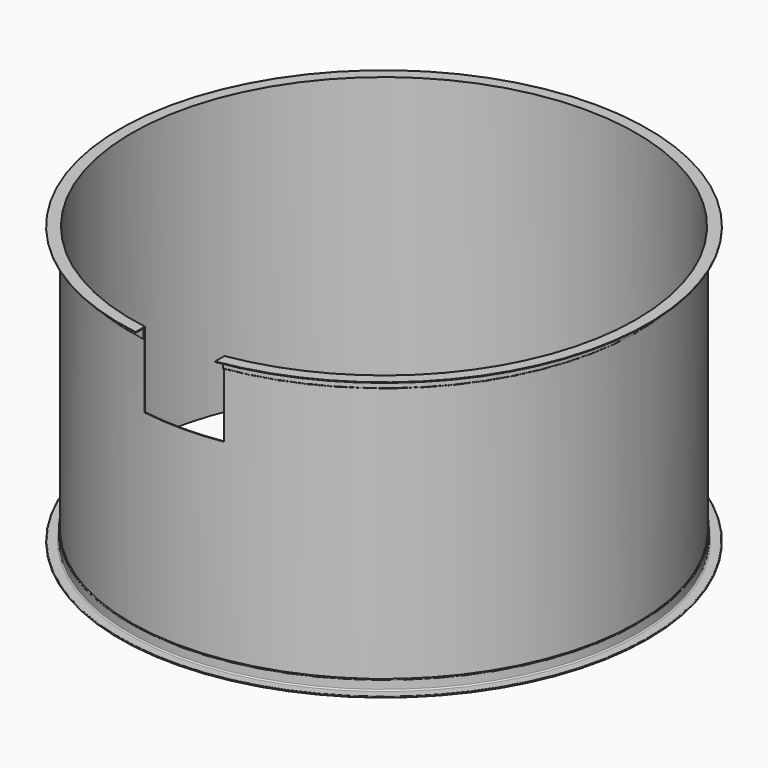
from build123d import *

# Parameters (mm, degrees)
SKETCH001_W   = 550
SKETCH001_H   = 520
EXTRUDE_DEPTH = 2500
SKETCH_W      = 5
SKETCH_H      = 1920


with BuildPart() as extrude_body:
    # Sketch001 → Extrude (new body)
    with BuildSketch(Plane.XZ):
        with Locations((0, 1660)):
            Rectangle(SKETCH001_W, SKETCH001_H)
    extrude(amount=EXTRUDE_DEPTH)


with BuildPart() as revolve001:
    # AngleSteel → Revolve001 (revolve)
    with BuildSketch(Plane(origin=(1770.58985, 0, 20.58985), x_dir=(1, 0, 0), z_dir=(0, 1, 0))):
        with BuildLine():
            Line((-20.58985, 20.58985), (-20.58985, -54.41015))
            Line((-20.58985, -54.41015), (-18.58985, -54.41015))
            ThreePointArc((-18.58985, -54.41015), (-15.761423, -53.238577), (-14.58985, -50.41015))
            Line((-14.58985, -50.41015), (-14.58985, 6.08985))
            ThreePointArc((-14.58985, 6.08985), (-12.100258, 12.100258), (-6.08985, 14.58985))
            Line((-6.08985, 14.58985), (50.41015, 14.58985))
            ThreePointArc((50.41015, 14.58985), (53.238577, 15.761423), (54.41015, 18.58985))
            Line((54.41015, 18.58985), (54.41015, 20.58985))
            Line((54.41015, 20.58985), (-20.58985, 20.58985))
        make_face()
    revolve(axis=Axis((0, 0, 0), (0, 0, 1)))


with BuildPart() as revolve002:
    # AngleSteel001 → Revolve002 (revolve)
    with BuildSketch(Plane(origin=(1770.58985, 0, 1899.41015), x_dir=(1, 0, 0), z_dir=(0, 1, 0))):
        with BuildLine():
            Line((-20.58985, -20.58985), (54.41015, -20.58985))
            Line((54.41015, -20.58985), (54.41015, -18.58985))
            ThreePointArc((54.41015, -18.58985), (53.238577, -15.761423), (50.41015, -14.58985))
            Line((50.41015, -14.58985), (-6.08985, -14.58985))
            ThreePointArc((-6.08985, -14.58985), (-12.100258, -12.100258), (-14.58985, -6.08985))
            Line((-14.58985, -6.08985), (-14.58985, 50.41015))
            ThreePointArc((-14.58985, 50.41015), (-15.761423, 53.238577), (-18.58985, 54.41015))
            Line((-18.58985, 54.41015), (-20.58985, 54.41015))
            Line((-20.58985, 54.41015), (-20.58985, -20.58985))
        make_face()
    revolve(axis=Axis((0, 0, 0), (0, 0, 1)))


with BuildPart() as cut:
    # Sketch → Revolve (revolve)
    with BuildSketch(Plane.XZ):
        with Locations((1747.5, 960)):
            Rectangle(SKETCH_W, SKETCH_H)
    revolve(axis=Axis((0, 0, 0), (0, 0, 1)))

    # Fusion: union Revolve001, Revolve002
    add(revolve001.part)
    add(revolve002.part)

    # Cut: cut Extrude body
    add(extrude_body.part, mode=Mode.SUBTRACT)


solid = cut.part
